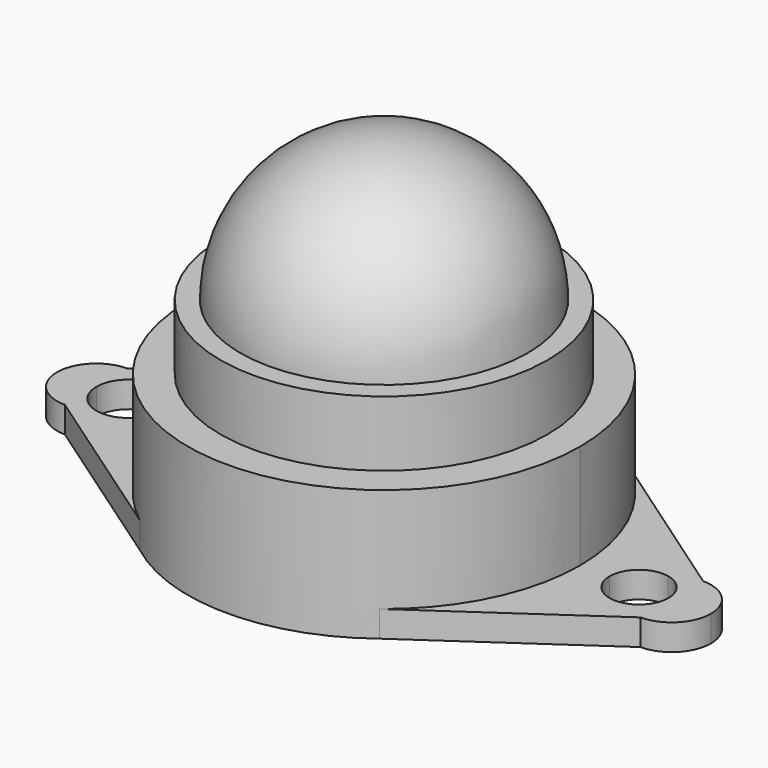
from build123d import *

# Parameters (mm, degrees)
F2_DEPTH = 10
F3_R     = 12.5
F4_DEPTH = 5
F7_DEPTH = 2


with BuildPart() as f2:
    # F1 (on face) → F2 (new body)
    with BuildSketch(Plane.XY):
        with BuildLine():
            Line((0, 0), (15, 0))
            ThreePointArc((15, 0), (13.2889854694, 6.9572167707), (8.5462846407, 12.3272470098))
            ThreePointArc((8.5462846407, 12.3272470098), (0.4015789928, 14.9946235135), (-7.8742218987, 12.7670133348))
            Line((-7.8742218987, 12.7670133348), (-9.1641377572, 11.8751243853))
            ThreePointArc((-9.1641377572, 11.8751243853), (-13.4622075894, 6.6158118792), (-15, 0))
            Line((-15, 0), (0, 0))
        make_face()
        with BuildLine():
            ThreePointArc((-15, 0), (0, -15), (15, 0))
            Line((15, 0), (0, 0))
            Line((0, 0), (-15, 0))
        make_face()
    extrude(amount=F2_DEPTH)

    # F3 (on face) → F4 (join)
    with BuildSketch(Plane.XY.offset(10)):
        Circle(F3_R)
    extrude(amount=F4_DEPTH)

    # F5 (on face) → F6 (revolve)
    with BuildSketch(Plane.XY.offset(15)):
        with BuildLine():
            Line((0, -11), (0, 11))
            ThreePointArc((0, 11), (-11, 0), (0, -11))
        make_face()
    revolve(axis=Axis((0, 0, 15), (0, 1, 0)))

    # F0 (on Top) → F7 (join)
    with BuildSketch(Plane.XY):
        with BuildLine():
            ThreePointArc((-9.1641377572, -11.8751243853), (-13.4622075894, -6.6158118792), (-15, 0))
            Line((-15, 0), (-17.0049901825, 0))
            ThreePointArc((-17.0049901825, 0), (-17.9996312672, -1.9911334725), (-20.1890252755, -2.3917296142))
            ThreePointArc((-20.1890252755, -2.3917296142), (-21.0448007649, -2.843869621), (-22, -3))
            Line((-22, -3), (-9.1641377572, -11.8751243853))
        make_face()
        with BuildLine():
            Line((17.25, 0), (15, 0))
            ThreePointArc((15, 0), (13.4622075894, -6.6158118792), (9.1641377572, -11.8751243853))
            Line((9.1641377572, -11.8751243853), (22, -3))
            ThreePointArc((22, -3), (20.9058923217, -2.7933722251), (19.9625, -2.2019522588))
            ThreePointArc((19.9625, -2.2019522588), (18.0819247199, -1.7468722048), (17.25, 0))
        make_face()
        with BuildLine():
            ThreePointArc((21.75, 0), (21.2468722048, -1.4180752801), (19.9625, -2.2019522588))
            ThreePointArc((19.9625, -2.2019522588), (20.9058923217, -2.7933722251), (22, -3))
            ThreePointArc((22, -3), (24.1213203436, -2.1213203436), (25, 0))
            Line((25, 0), (22, 0))
            Line((22, 0), (21.75, 0))
        make_face()
        with BuildLine():
            ThreePointArc((8.5462846407, 12.3272470098), (13.2889854694, 6.9572167707), (15, 0))
            Line((15, 0), (17.25, 0))
            ThreePointArc((17.25, 0), (18.0819247199, 1.7468722048), (19.9625, 2.2019522588))
            ThreePointArc((19.9625, 2.2019522588), (20.9058923217, 2.7933722251), (22, 3))
            Line((22, 3), (8.5462846407, 12.3272470098))
        make_face()
        with BuildLine():
            ThreePointArc((22, 3), (20.9058923217, 2.7933722251), (19.9625, 2.2019522588))
            ThreePointArc((19.9625, 2.2019522588), (21.2468722048, 1.4180752801), (21.75, 0))
            Line((21.75, 0), (22, 0))
            Line((22, 0), (25, 0))
            ThreePointArc((25, 0), (24.1213203436, 2.1213203436), (22, 3))
        make_face()
        with BuildLine():
            Line((-17.0049901825, 0), (-15, 0))
            ThreePointArc((-15, 0), (-13.4622075894, 6.6158118792), (-9.1641377572, 11.8751243853))
            Line((-9.1641377572, 11.8751243853), (-22, 3))
            ThreePointArc((-22, 3), (-21.0448007649, 2.843869621), (-20.1890252755, 2.3917296142))
            ThreePointArc((-20.1890252755, 2.3917296142), (-17.9996312672, 1.9911334725), (-17.0049901825, 0))
        make_face()
        with BuildLine():
            ThreePointArc((-21.9856042642, 0), (-21.4864306958, 1.4956659562), (-20.1890252755, 2.3917296142))
            ThreePointArc((-20.1890252755, 2.3917296142), (-21.0448007649, 2.843869621), (-22, 3))
            ThreePointArc((-22, 3), (-24.1213203436, 2.1213203436), (-25, 0))
            Line((-25, 0), (-22, 0))
            Line((-22, 0), (-21.9856042642, 0))
        make_face()
        with BuildLine():
            ThreePointArc((-22, -3), (-21.0448007649, -2.843869621), (-20.1890252755, -2.3917296142))
            ThreePointArc((-20.1890252755, -2.3917296142), (-21.4864306958, -1.4956659562), (-21.9856042642, 0))
            Line((-21.9856042642, 0), (-22, 0))
            Line((-22, 0), (-25, 0))
            ThreePointArc((-25, 0), (-24.1213203436, -2.1213203436), (-22, -3))
        make_face()
    extrude(amount=F7_DEPTH)


solid = f2.part
